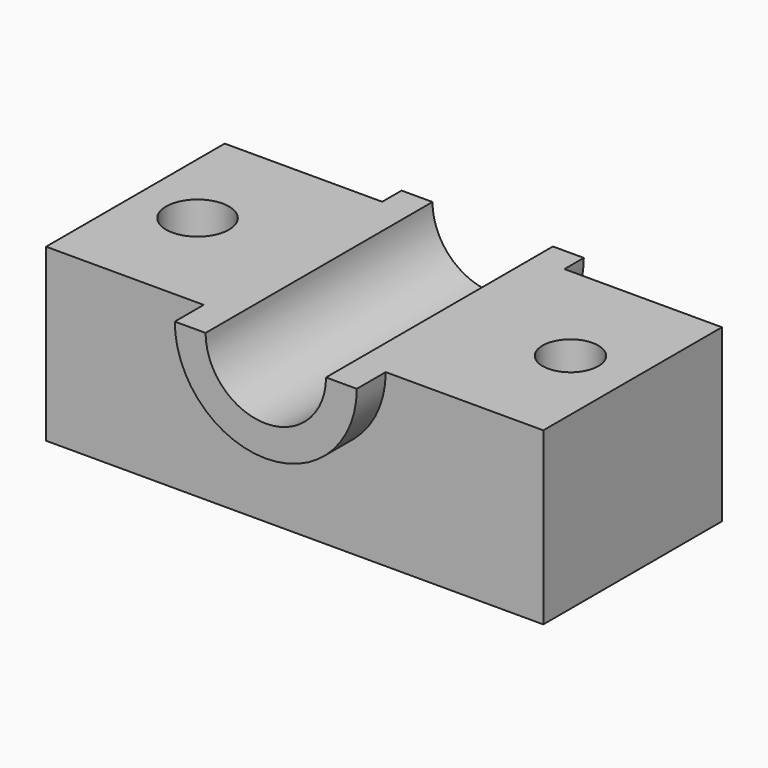
from build123d import *

# Parameters (mm, degrees)
F1_DEPTH = 50.8
F3_DEPTH = 73.5743418336
F7_DEPTH = 10.7400026172
F9_DEPTH = 197.7006793022


with BuildPart() as f1:
    # F0 (on Top) → F1 (new body)
    with BuildSketch(Plane.XY):
        with BuildLine():
            Line((73.9071890712, -33.1862606108), (73.9071890712, 0))
            Line((73.9071890712, 0), (63.7266252914, 0))
            ThreePointArc((63.7266252914, 0), (55.4303918034, -8.296233488), (47.1341583154, 0))
            Line((47.1341583154, 0), (36.9535945356, 0))
            Line((36.9535945356, 0), (0, 0))
            Line((0, 0), (-36.9535945356, 0))
            Line((-36.9535945356, 0), (-46.072034324, 0))
            ThreePointArc((-46.072034324, 0), (-55.4303918034, -9.3583574794), (-64.7887492828, 0))
            Line((-64.7887492828, 0), (-73.9071890712, 0))
            Line((-73.9071890712, 0), (-73.9071890712, -33.1862606108))
            Line((-73.9071890712, -33.1862606108), (73.9071890712, -33.1862606108))
        make_face()
        with BuildLine():
            Line((73.9071890712, 0), (73.9071890712, 33.1862606108))
            Line((73.9071890712, 33.1862606108), (-73.9071890712, 33.1862606108))
            Line((-73.9071890712, 33.1862606108), (-73.9071890712, 0))
            Line((-73.9071890712, 0), (-64.7887492828, 0))
            ThreePointArc((-64.7887492828, 0), (-55.4303918034, 9.3583574794), (-46.072034324, 0))
            Line((-46.072034324, 0), (-36.9535945356, 0))
            Line((-36.9535945356, 0), (0, 0))
            Line((0, 0), (36.9535945356, 0))
            Line((36.9535945356, 0), (47.1341583154, 0))
            ThreePointArc((47.1341583154, 0), (55.4303918034, 8.296233488), (63.7266252914, 0))
            Line((63.7266252914, 0), (73.9071890712, 0))
        make_face()
    extrude(amount=F1_DEPTH)

    # F2 (on face) → F3 (join)
    with BuildSketch(Plane.XZ.offset(33.1862606108)):
        with BuildLine():
            ThreePointArc((17.8759153932, 50.8), (0, 32.9240846068), (-17.8759153932, 50.8))
            Line((-17.8759153932, 50.8), (-27.0876288414, 50.8))
            ThreePointArc((-27.0876288414, 50.8), (0, 23.7123711586), (27.0876288414, 50.8))
            Line((27.0876288414, 50.8), (17.8759153932, 50.8))
        make_face()
    extrude(amount=-F3_DEPTH)

    # F6 (on face) → F7 (join)
    with BuildSketch(Plane.XZ.offset(33.1862606108)):
        with BuildLine():
            Line((27.0531214774, 50.8), (17.9031416774, 50.8))
            ThreePointArc((17.9031416774, 50.8), (0, 32.8968583226), (-17.9031416774, 50.8))
            Line((-17.9031416774, 50.8), (-27.0531214774, 50.8))
            ThreePointArc((-27.0531214774, 50.8), (0, 23.7468785226), (27.0531214774, 50.8))
        make_face()
    extrude(amount=F7_DEPTH)

    # F5 (on face) + F3_face1 (on face) → F9 (cut)
    with BuildSketch(Plane.XZ.offset(33.1862606108)):
        with BuildLine():
            Line((17.9031416774, 50.8), (-17.9031416774, 50.8))
            ThreePointArc((-17.9031416774, 50.8), (0, 32.8968583226), (17.9031416774, 50.8))
        make_face()
    with BuildSketch(Plane(origin=(0, 33.1862606108, 43.2132258743), x_dir=(-1, 0, 0), z_dir=(0, 1, 0))):
        with BuildLine():
            ThreePointArc((-17.8759153932, 7.5867741257), (0, -10.2891412676), (17.8759153932, 7.5867741257))
            Line((17.8759153932, 7.5867741257), (-17.8759153932, 7.5867741257))
        make_face()
    extrude(amount=-F9_DEPTH, dir=(0, -1, 0), mode=Mode.SUBTRACT)


solid = f1.part
